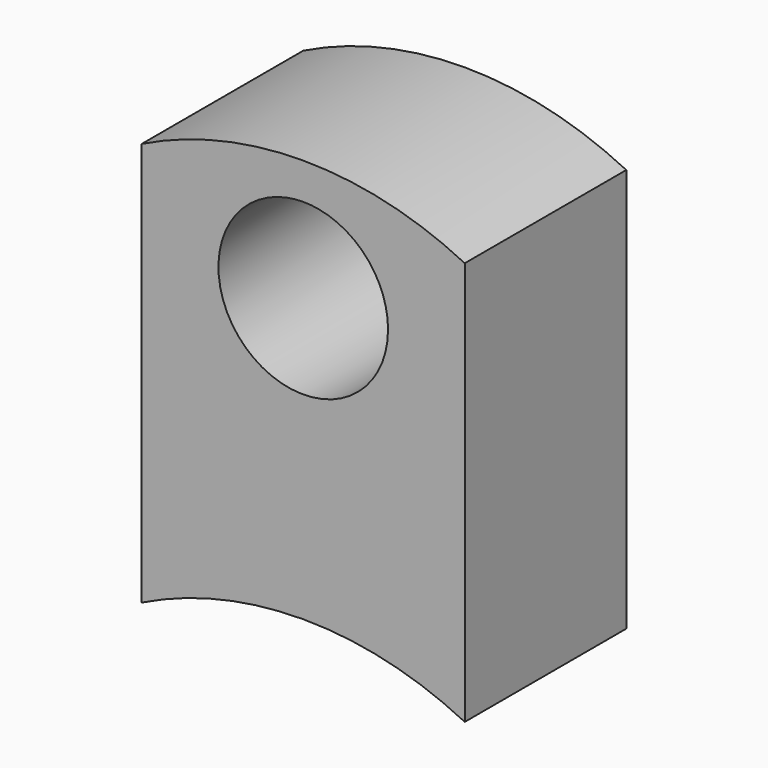
from build123d import *

# Parameters (mm, degrees)
F1_DEPTH = 25


with BuildPart() as f1:
    # F0 (on Front) → F1 (new body)
    with BuildSketch(Plane.XZ):
        with BuildLine():
            Line((0, 50), (0, 0))
            ThreePointArc((0, 0), (20, 4.688711), (40, 0))
            Line((40, 0), (40, 50))
            Line((40, 50), (21.981748, 50))
            ThreePointArc((21.981748, 50), (28.095009, 46.376074), (30.5, 39.688711))
            ThreePointArc((30.5, 39.688711), (13.312637, 31.593702), (18.018252, 50))
            Line((18.018252, 50), (0, 50))
        make_face()
        with BuildLine():
            ThreePointArc((40, 50), (20, 54.688711), (0, 50))
            Line((0, 50), (18.018252, 50))
            ThreePointArc((18.018252, 50), (20, 50.188711), (21.981748, 50))
            Line((21.981748, 50), (40, 50))
        make_face()
    extrude(amount=F1_DEPTH)


solid = f1.part
